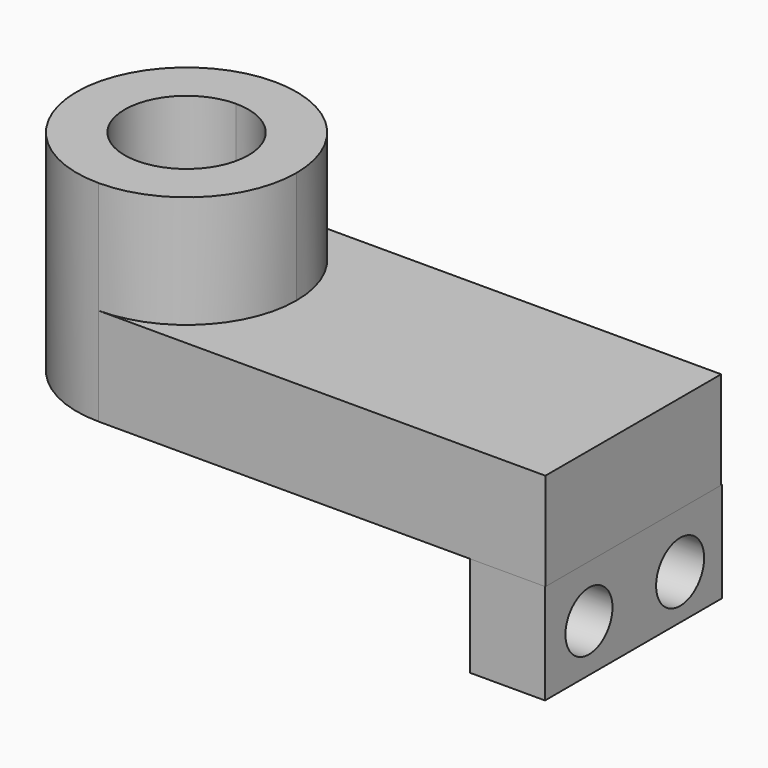
from build123d import *

# Parameters (mm, degrees)
F1_DEPTH = 25.4
F2_DEPTH = 54.61407
F3_W     = 19.551679
F3_H     = 57.516087
F4_DEPTH = 26.09864
F5_R     = 7.652629
F5_R_2   = 7.80409
F6_DEPTH = 25.4


with BuildPart() as f1:
    # F0 (on Top) → F1 (new body)
    with BuildSketch(Plane.XY):
        with BuildLine():
            ThreePointArc((-29.517332, 0), (-37.88477, 20.200783), (-58.085553, 28.568221))
            Line((-58.085553, 28.568221), (-58.085553, 16.098264))
            ThreePointArc((-58.085553, 16.098264), (-46.702362, 11.383191), (-41.98729, 0))
            ThreePointArc((-41.98729, 0), (-46.702362, -11.383191), (-58.085553, -16.098264))
            Line((-58.085553, -16.098264), (-58.085553, -28.568221))
            ThreePointArc((-58.085553, -28.568221), (-37.88477, -20.200783), (-29.517332, 0))
        make_face()
        with BuildLine():
            Line((-58.085553, 16.098264), (-58.085553, 28.568221))
            ThreePointArc((-58.085553, 28.568221), (-86.653775, 0), (-58.085553, -28.568221))
            Line((-58.085553, -28.568221), (-58.085553, -16.098264))
            ThreePointArc((-58.085553, -16.098264), (-74.183817, 0), (-58.085553, 16.098264))
        make_face()
        with BuildLine():
            Line((58.085553, 28.568221), (-58.085553, 28.568221))
            ThreePointArc((-58.085553, 28.568221), (-37.88477, 20.200783), (-29.517332, 0))
            ThreePointArc((-29.517332, 0), (-37.88477, -20.200783), (-58.085553, -28.568221))
            Line((-58.085553, -28.568221), (58.085553, -28.568221))
            Line((58.085553, -28.568221), (58.085553, 28.568221))
        make_face()
    extrude(amount=F1_DEPTH)

    # F0 (on Top) → F2 (join)
    with BuildSketch(Plane.XY):
        with BuildLine():
            Line((-58.085553, 16.098264), (-58.085553, 28.568221))
            ThreePointArc((-58.085553, 28.568221), (-86.653775, 0), (-58.085553, -28.568221))
            Line((-58.085553, -28.568221), (-58.085553, -16.098264))
            ThreePointArc((-58.085553, -16.098264), (-74.183817, 0), (-58.085553, 16.098264))
        make_face()
        with BuildLine():
            ThreePointArc((-29.517332, 0), (-37.88477, 20.200783), (-58.085553, 28.568221))
            Line((-58.085553, 28.568221), (-58.085553, 16.098264))
            ThreePointArc((-58.085553, 16.098264), (-46.702362, 11.383191), (-41.98729, 0))
            ThreePointArc((-41.98729, 0), (-46.702362, -11.383191), (-58.085553, -16.098264))
            Line((-58.085553, -16.098264), (-58.085553, -28.568221))
            ThreePointArc((-58.085553, -28.568221), (-37.88477, -20.200783), (-29.517332, 0))
        make_face()
    extrude(amount=F2_DEPTH)

    # F3 (on face) → F4 (join)
    with BuildSketch(Plane.XY):
        with Locations((48.208024, 0.189823)):
            Rectangle(F3_W, F3_H)
    extrude(amount=-F4_DEPTH)

    # F5 (on face) → F6 (cut)
    with BuildSketch(Plane.YZ.offset(57.983864)):
        with Locations((-14.27424, -13.706455)):
            Circle(F5_R)
        with Locations((15.358331, -14.498299)):
            Circle(F5_R_2)
    extrude(amount=-F6_DEPTH, mode=Mode.SUBTRACT)


solid = f1.part
